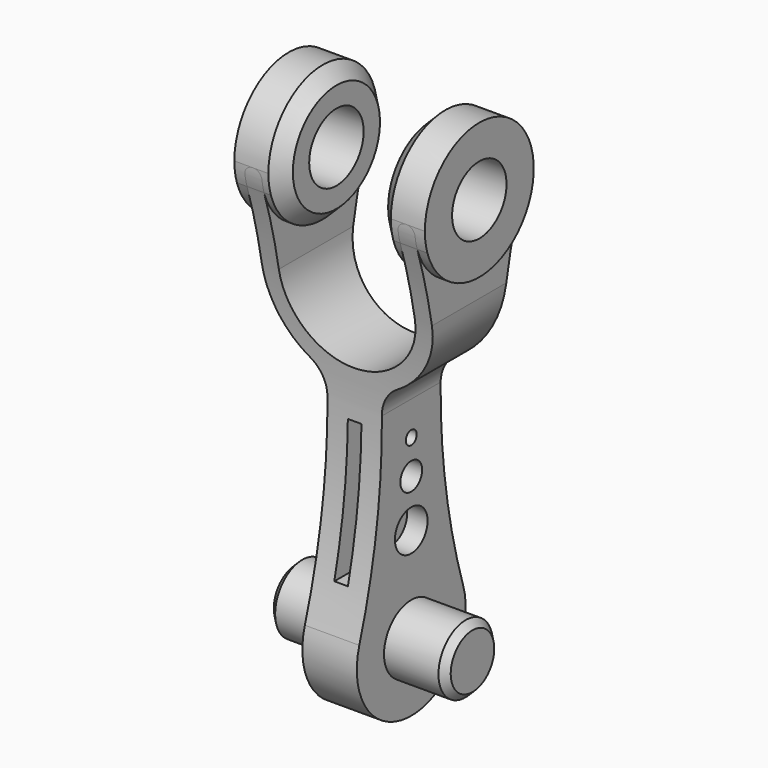
from build123d import *

# Parameters (mm, degrees)
F1_DEPTH  = 19.05
F3_R      = 12.7
F4_DEPTH  = 17.78
F2_R      = 6.35
F6_DEPTH  = 38.1
F5_W      = 17.78
F5_H      = 38.1
F7_DEPTH  = 19.05
F8_SIZE   = 2.54
F10_DEPTH = 5.08
F11_R     = 6.35
F12_DEPTH = 16.51
F13_SIZE  = 1.27
F15_DEPTH = 38.1
F16_W     = 2.54
F16_H     = 25.4
F17_DEPTH = 25.4
F18_R     = 3.81
F18_R_2   = 2.54
F18_R_3   = 1.27
F19_DEPTH = 12.7
F20_ANGLE = 179.9946913403


with BuildPart() as f1:
    # F0 (on Front) → F1 (new body, symmetric)
    with BuildSketch(Plane.XZ):
        with BuildLine():
            ThreePointArc((-5.08, -13.9496366999), (-5.9049678847, -17.0795760164), (-8.1655181496, -19.3962556739))
            ThreePointArc((-8.1655181496, -19.3962556739), (-13.8198807904, -25.1910159629), (-15.8833905736, -33.02))
            Line((-15.8833905736, -33.02), (-15.8833905736, -49.276))
            ThreePointArc((-15.8833905736, -49.276), (-15.4370213081, -50.3536307345), (-14.3593905736, -50.8))
            Line((-14.3593905736, -50.8), (-14.224, -50.8))
            ThreePointArc((-14.224, -50.8), (-13.1463692655, -50.3536307345), (-12.7, -49.276))
            Line((-12.7, -49.276), (-12.7, -33.02))
            ThreePointArc((-12.7, -33.02), (0, -20.32), (12.7, -33.02))
            Line((12.7, -33.02), (12.7, -49.276))
            ThreePointArc((12.7, -49.276), (13.1463692655, -50.3536307345), (14.224, -50.8))
            Line((14.224, -50.8), (14.3593905736, -50.8))
            ThreePointArc((14.3593905736, -50.8), (15.4370213081, -50.3536307345), (15.8833905736, -49.276))
            Line((15.8833905736, -49.276), (15.8833905736, -33.02))
            ThreePointArc((15.8833905736, -33.02), (13.8198807904, -25.1910159629), (8.1655181496, -19.3962556739))
            ThreePointArc((8.1655181496, -19.3962556739), (5.9049678847, -17.0795760164), (5.08, -13.9496366999))
            Line((5.08, -13.9496366999), (5.08, 2.3491094791))
            Line((5.08, 2.3491094791), (-5.08, 2.3491094791))
            Line((-5.08, 2.3491094791), (-5.08, -13.9496366999))
        make_face()
    extrude(amount=F1_DEPTH, both=True)

    # F3 (on Right) → F4 (join, symmetric)
    with BuildSketch(Plane.YZ):
        with Locations((0, -50.8)):
            Circle(F3_R)
    extrude(amount=F4_DEPTH, both=True)

    # F2 (on Right) → F6 (cut, symmetric)
    with BuildSketch(Plane.YZ):
        with Locations((0, -50.8)):
            Circle(F2_R)
    extrude(amount=F6_DEPTH, both=True, mode=Mode.SUBTRACT)

    # F5 (on Front) → F7 (cut, symmetric)
    with BuildSketch(Plane.XZ):
        with Locations((0, -50.8)):
            Rectangle(F5_W, F5_H)
    extrude(amount=F7_DEPTH, both=True, mode=Mode.SUBTRACT)

    # F8
    f8_edges = [f1.edges().sort_by_distance(p)[0] for p in [
        (-8.89, -12.7, -50.8),
        (8.89, -12.7, -50.8),
    ]]
    chamfer(f8_edges, length=F8_SIZE)

    # F9 (on Right) → F10 (join, symmetric)
    with BuildSketch(Plane.YZ):
        with BuildLine():
            Line((19.0499954742, -0.0131314098), (19.0499954742, 25.3868685902))
            ThreePointArc((19.0499954742, 25.3868685902), (0, 44.45), (-19.0499954742, 25.3868685902))
            Line((-19.0499954742, 25.3868685902), (-19.0499954742, -0.0131314098))
            Line((-19.0499954742, -0.0131314098), (19.0499954742, -0.0131314098))
        make_face()
    extrude(amount=F10_DEPTH, both=True)

    # F11 (on Right) → F12 (join, symmetric)
    with BuildSketch(Plane.YZ):
        with Locations((0, 25.4)):
            Circle(F11_R)
    extrude(amount=F12_DEPTH, both=True)

    # F13
    f13_edges = [f1.edges().sort_by_distance(p)[0] for p in [
        (-16.51, -6.35, 25.4),
        (16.51, -6.35, 25.4),
    ]]
    chamfer(f13_edges, length=F13_SIZE)

    # F14 (on Right) → F15 (intersect, symmetric)
    with BuildSketch(Plane.YZ):
        with BuildLine():
            ThreePointArc((12.115027858, -46.99), (6.85027858, -12.7), (12.115027858, 21.59))
            ThreePointArc((12.115027858, 21.59), (0, 38.1), (-12.115027858, 21.59))
            ThreePointArc((-12.115027858, 21.59), (-6.85027858, -12.7), (-12.115027858, -46.99))
            ThreePointArc((-12.115027858, -46.99), (0, -63.5), (12.115027858, -46.99))
        make_face()
    extrude(amount=F15_DEPTH, both=True, mode=Mode.INTERSECT)

    # F16 (on Front) → F17 (cut, symmetric)
    with BuildSketch(Plane.XZ):
        with Locations((0, 1.2903633001)):
            Rectangle(F16_W, F16_H)
    extrude(amount=F17_DEPTH, both=True, mode=Mode.SUBTRACT)

    # F18 (on Right) → F19 (cut, symmetric)
    with BuildSketch(Plane.YZ):
        with Locations((0, 7.62)):
            Circle(F18_R)
        with Locations((0, -1.27)):
            Circle(F18_R_2)
        with Locations((0, -7.62)):
            Circle(F18_R_3)
    extrude(amount=F19_DEPTH, both=True, mode=Mode.SUBTRACT)


with BuildPart() as f1_1:
    # F20: moved
    add(f1.part.rotate(Axis((15.24, 0, 25.4), (1, 0, 0)), F20_ANGLE))


with BuildPart() as f1_2:
    # F22: moved
    add(f1_1.part.moved(Location((0, 0, -101.5999996729))))


solid = f1_2.part
